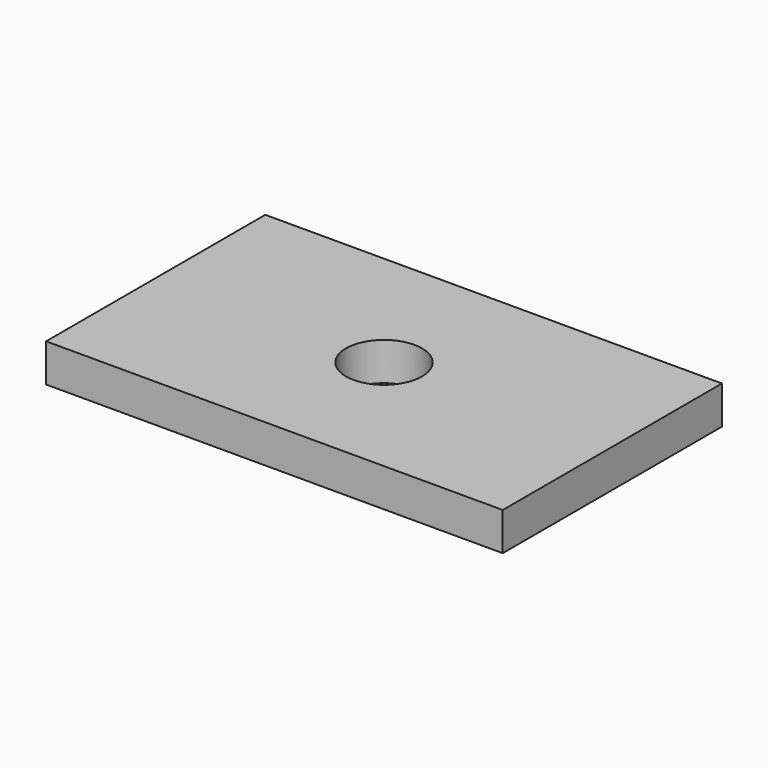
from build123d import *

# Parameters (mm, degrees)
F0_W     = 300
F0_H     = 180
F0_R     = 25
F1_DEPTH = 5
F2_DEPTH = 25


with BuildPart() as f1:
    # F0 (on Top) → F1 (new body)
    with BuildSketch(Plane.XY):
        Rectangle(F0_W, F0_H)
        Circle(F0_R, mode=Mode.SUBTRACT)
    extrude(amount=F1_DEPTH)

    # F0 (on Top) → F2 (join)
    with BuildSketch(Plane.XY):
        Rectangle(F0_W, F0_H)
        Circle(F0_R, mode=Mode.SUBTRACT)
    extrude(amount=F2_DEPTH)


solid = f1.part
